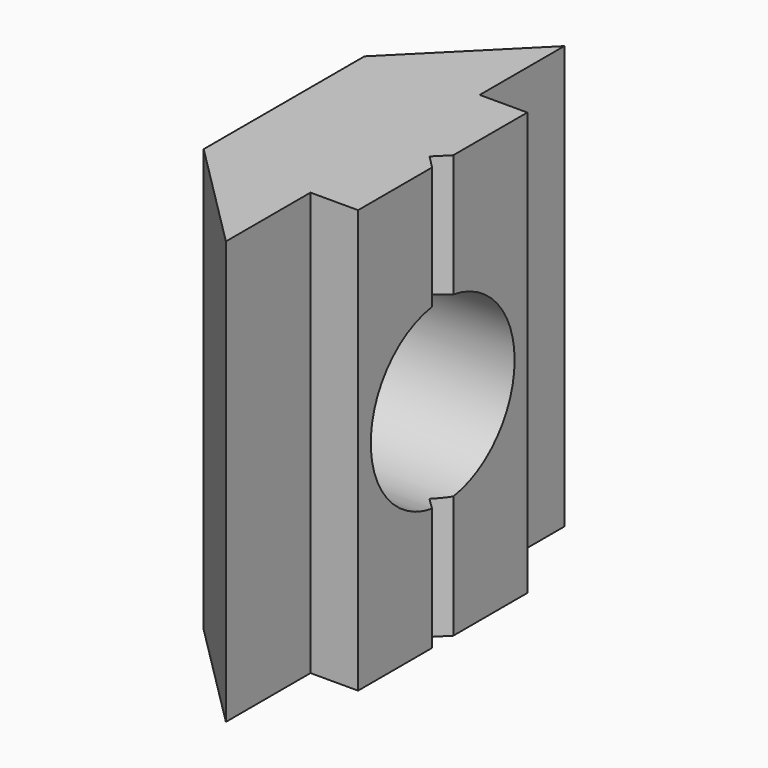
from build123d import *

# Parameters (mm, degrees)
F1_DEPTH = 16
F3_D     = 6.8
F3_DEPTH = 15.75
F3_TIP   = 2.0429261047


with BuildPart() as f1:
    # F0 (on Top) → F1 (new body)
    with BuildSketch(Plane.XY):
        Polygon((-0.5, 0), (0, 0.5), (0, 4), (-1.8, 4), (-1.8, 8), (-6, 3.8), (-6, 0), (-6, -3.8), (-1.8, -8), (-1.8, -4), (0, -4), (0, -0.5), align=None)
    extrude(amount=F1_DEPTH)

    # F3
    with Locations(Plane(origin=(-6, 0, 0), x_dir=(0, -1, 0), z_dir=(-1, 0, 0))):
        with Locations((0, 8)):
            Hole(F3_D / 2, depth=F3_DEPTH)
            with Locations((0, 0, -(F3_DEPTH + F3_TIP / 2))):  # 118° drill point
                Cone(0, F3_D / 2, F3_TIP, mode=Mode.SUBTRACT)


solid = f1.part
